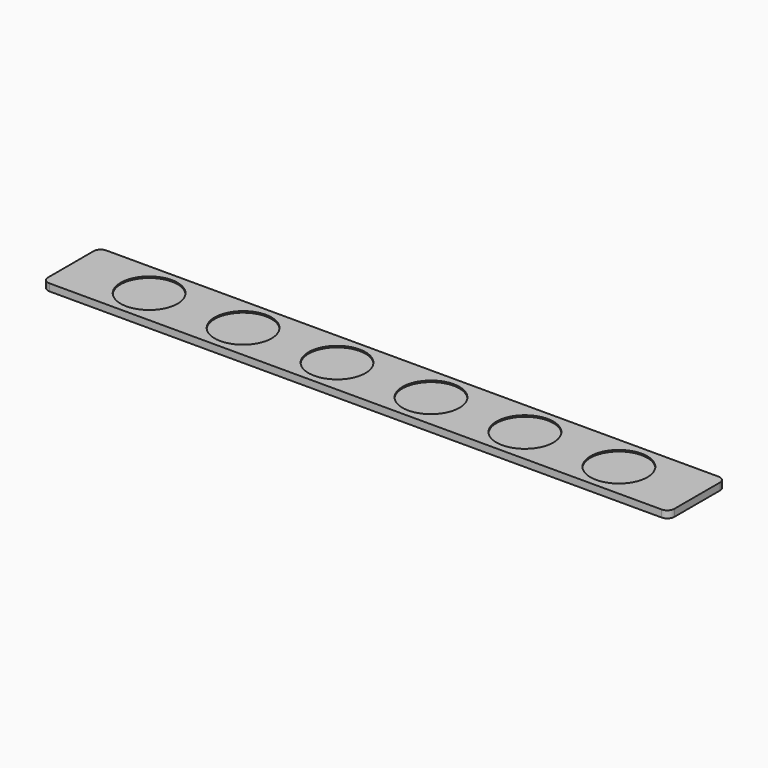
from build123d import *

# Parameters (mm, degrees)
SKETCH_W            = 440
SKETCH_H            = 50
PAD_DEPTH           = 5
SKETCH001_R         = 20
POCKET_DEPTH        = 1
LINEARPATTERN_COUNT = 6
LINEARPATTERN_PITCH = 66
FILLET_R            = 5
FILLET001_R         = 5


with BuildPart() as part:
    # Sketch → Pad (new body)
    with BuildSketch(Plane.XY):
        with Locations((163.979408, 5.129884)):
            Rectangle(SKETCH_W, SKETCH_H)
    extrude(amount=PAD_DEPTH)

    # Sketch001 → Pocket (cut)
    with BuildSketch(Plane.XY.offset(5)):
        with Locations((-1.020592, 5.129884)):
            Circle(SKETCH001_R)
    pocket = extrude(amount=-POCKET_DEPTH, mode=Mode.SUBTRACT)

    # LinearPattern: Pocket ×6
    with Locations(*[(i * LINEARPATTERN_PITCH, 0, 0) for i in range(1, LINEARPATTERN_COUNT)]):
        add(pocket, mode=Mode.SUBTRACT)

    # Fillet
    fillet_edges = [part.edges().sort_by_distance(p)[0] for p in [
        (-56.020592, 30.129884, 2.5),
        (383.979408, -19.870116, 2.5),
        (383.979408, 30.129884, 2.5),
    ]]
    fillet(fillet_edges, radius=FILLET_R)

    # Fillet001
    fillet001_edges = [part.edges().sort_by_distance(p)[0] for p in [
        (-56.020592, -19.870116, 2.5),
    ]]
    fillet(fillet001_edges, radius=FILLET001_R)


solid = part.part
